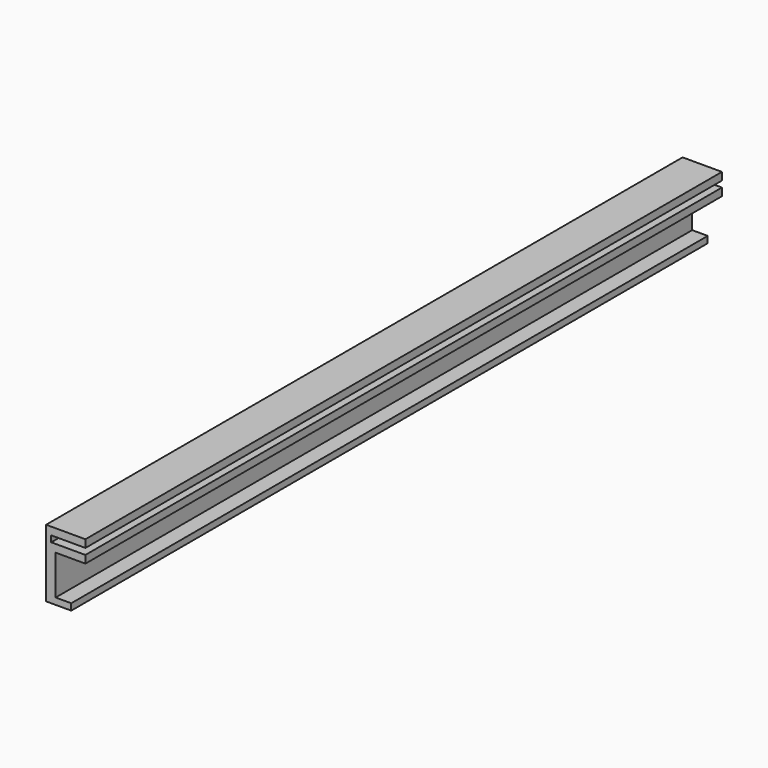
from build123d import *

# Parameters (mm, degrees)
F0_W     = 13.0302
F0_H     = 22.352
F1_DEPTH = 263.525
F2_W     = 11.3284
F2_H     = 2.032
F3_DEPTH = 263.526
F4_W     = 9.8552
F4_H     = 13.081
F5_DEPTH = 263.526
F6_W     = 263.525
F6_H     = 2.159
F7_DEPTH = 4.699


with BuildPart() as f1:
    # F0 (on Front) → F1 (new body)
    with BuildSketch(Plane.XZ):
        Rectangle(F0_W, F0_H)
    extrude(amount=F1_DEPTH)

    # F2 (on face) → F3 (cut, through all)
    with BuildSketch(Plane.XZ.offset(263.525)):
        with Locations((0.8509, 7.62)):
            Rectangle(F2_W, F2_H)
    extrude(amount=-F3_DEPTH, mode=Mode.SUBTRACT)

    # F4 (on face) → F5 (cut, through all)
    with BuildSketch(Plane.XZ.offset(263.525)):
        with Locations((1.5875, -2.4765)):
            Rectangle(F4_W, F4_H)
    extrude(amount=-F5_DEPTH, mode=Mode.SUBTRACT)

    # F6 (on face) → F7 (cut)
    with BuildSketch(Plane.YZ.offset(6.5151)):
        with Locations((-131.7625, -10.0965)):
            Rectangle(F6_W, F6_H)
    extrude(amount=-F7_DEPTH, mode=Mode.SUBTRACT)


solid = f1.part
